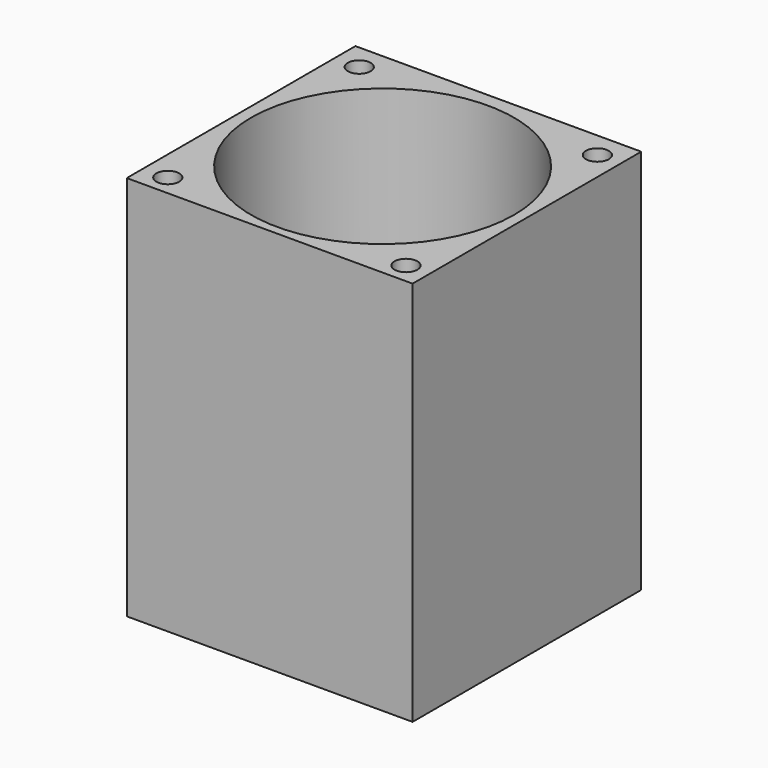
from build123d import *

# Parameters (mm, degrees)
F0_W   = 40
F0_H   = 40
F0_R   = 1.6
F0_R_2 = 18.4155


with BuildPart() as f2:
    # F2: sweep along a path in F1
    with BuildLine(Plane.YZ) as f2_path:
        Line((0, 0), (0, -54))
    # F0 (on Top) → F2 (sweep)
    with BuildSketch(Plane.XY):
        with Locations((-0.088266, 0.357345)):
            Rectangle(F0_W, F0_H)
        with Locations((-16.664036, -16.74399)):
            Circle(F0_R, mode=Mode.SUBTRACT)
        with Locations((16.664036, -16.74399)):
            Circle(F0_R, mode=Mode.SUBTRACT)
        Circle(F0_R_2, mode=Mode.SUBTRACT)
        with Locations((-16.664036, 16.74399)):
            Circle(F0_R, mode=Mode.SUBTRACT)
        with Locations((16.664036, 16.74399)):
            Circle(F0_R, mode=Mode.SUBTRACT)
    sweep(path=f2_path.line)


solid = f2.part
